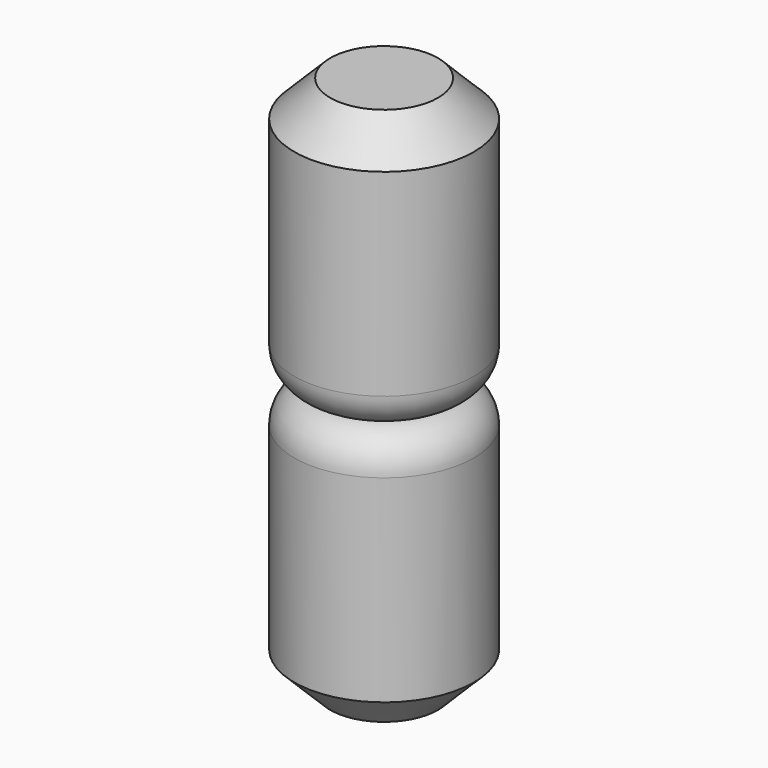
from build123d import *

# Parameters (mm, degrees)
F0_R     = 5
F1_DEPTH = 15
F2_W     = 4
F2_H     = 4
F3_DEPTH = 10
F4_R     = 2
F5_SIZE  = 2


with BuildPart() as f1:
    # F0 (on Top) → F1 (new body)
    with BuildSketch(Plane.XY):
        Circle(F0_R)
    extrude(amount=F1_DEPTH)

    # F2 (on face) → F3 (cut)
    with BuildSketch(Plane.XY.offset(15)):
        Rectangle(F2_W, F2_H)
    extrude(amount=-F3_DEPTH, mode=Mode.SUBTRACT)

    # F4
    f4_edges = [f1.edges().sort_by_distance(p)[0] for p in [
        (-5, 0, 15),
    ]]
    fillet(f4_edges, radius=F4_R)

    # F5
    f5_edges = [f1.edges().sort_by_distance(p)[0] for p in [
        (-5, 0, 0),
    ]]
    chamfer(f5_edges, length=F5_SIZE)

    # F6: F1 across face


with BuildPart() as f1_1:
    add(f1.part)
    add(f1.part.mirror(Plane.XY.offset(15)))


solid = f1_1.part
